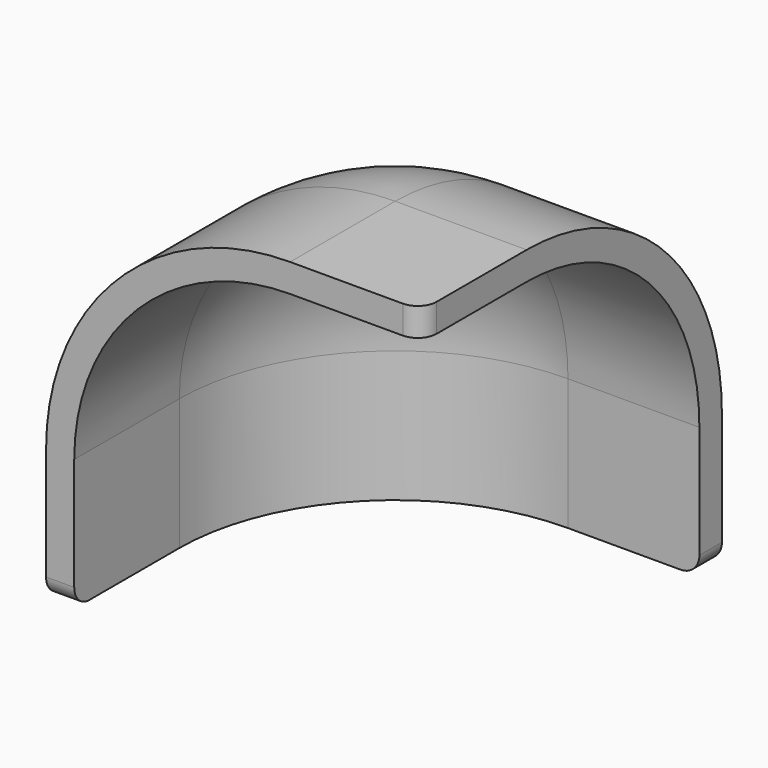
from build123d import *

# Parameters (mm, degrees)
F1_ANGLE = 90
F2_DEPTH = 7
F3_DEPTH = 7
F4_DEPTH = 7
F5_T     = -1.5
F6_R     = 1


with BuildPart() as f1:
    # F0 (on Top) → F1 (revolve)
    with BuildSketch(Plane.XY):
        with BuildLine():
            Line((-13, 0), (0, 0))
            Line((0, 0), (0, 13))
            ThreePointArc((0, 13), (-9.1923881554, 9.1923881554), (-13, 0))
        make_face()
    revolve(axis=Axis((0, 6.5, 0), (0, 1, 0)), revolution_arc=F1_ANGLE)

    # F2 (add): a face of the model
    f2_faces = [f1.faces().sort_by_distance(p)[0] for p in [
        (0, 5.5173713605, 5.5173713605),
    ]]
    extrude(f2_faces, amount=F2_DEPTH)

    # F3 (add): a face of the model
    f3_faces = [f1.faces().sort_by_distance(p)[0] for p in [
        (-1.8496808576, 5.9170419058, 0),
    ]]
    extrude(f3_faces, amount=F3_DEPTH)

    # F4 (add): a face of the model
    f4_faces = [f1.faces().sort_by_distance(p)[0] for p in [
        (-2.29243693, 0, 2.29243693),
    ]]
    extrude(f4_faces, amount=F4_DEPTH)

    # F5
    f5_openings = [f1.faces().sort_by_distance(p)[0] for p in [
        (7, 2.292437, 2.292437),
        (-2.292437, 2.292437, -7),
        (-2.292437, -7, 2.292437),
    ]]
    offset(amount=F5_T, openings=f5_openings)

    # F6
    f6_edges = [f1.edges().sort_by_distance(p)[0] for p in [
        (7, -7, 12.25),
        (7, 12.25, -7),
        (-12.25, -7, -7),
    ]]
    fillet(f6_edges, radius=F6_R)


solid = f1.part
